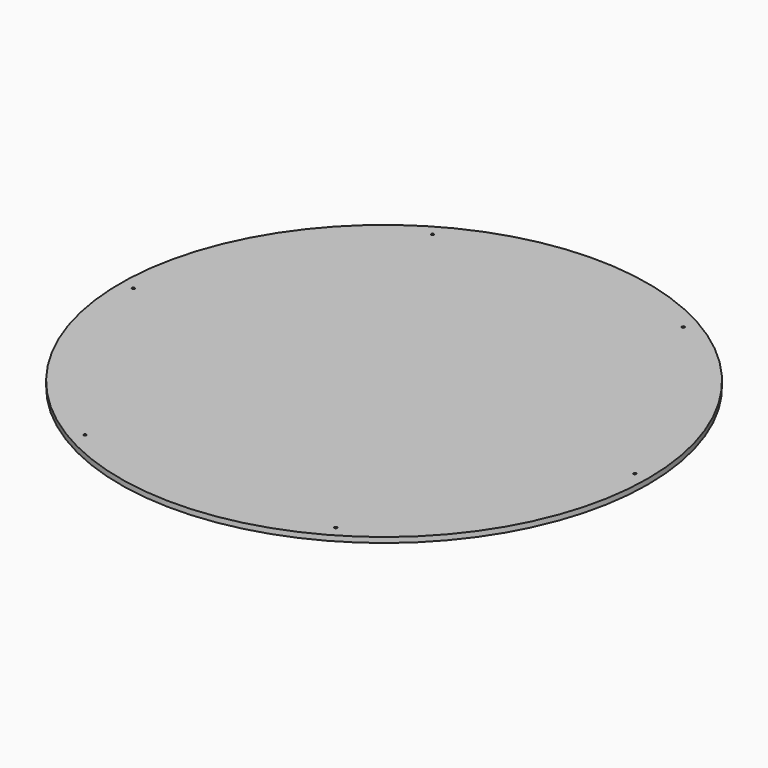
from build123d import *

# Parameters (mm, degrees)
F0_R     = 200
F0_R_2   = 1
F1_DEPTH = 4


with BuildPart() as f1:
    # F0 (on Top) → F1 (new body)
    with BuildSketch(Plane.XY):
        Circle(F0_R)
        with Locations((-95, -164.544827)):
            Circle(F0_R_2, mode=Mode.SUBTRACT)
        with Locations((95, -164.544827)):
            Circle(F0_R_2, mode=Mode.SUBTRACT)
        with Locations((-190, 0)):
            Circle(F0_R_2, mode=Mode.SUBTRACT)
        with Locations((-95, 164.544827)):
            Circle(F0_R_2, mode=Mode.SUBTRACT)
        with Locations((190, 0)):
            Circle(F0_R_2, mode=Mode.SUBTRACT)
        with Locations((95, 164.544827)):
            Circle(F0_R_2, mode=Mode.SUBTRACT)
    extrude(amount=F1_DEPTH)


solid = f1.part
